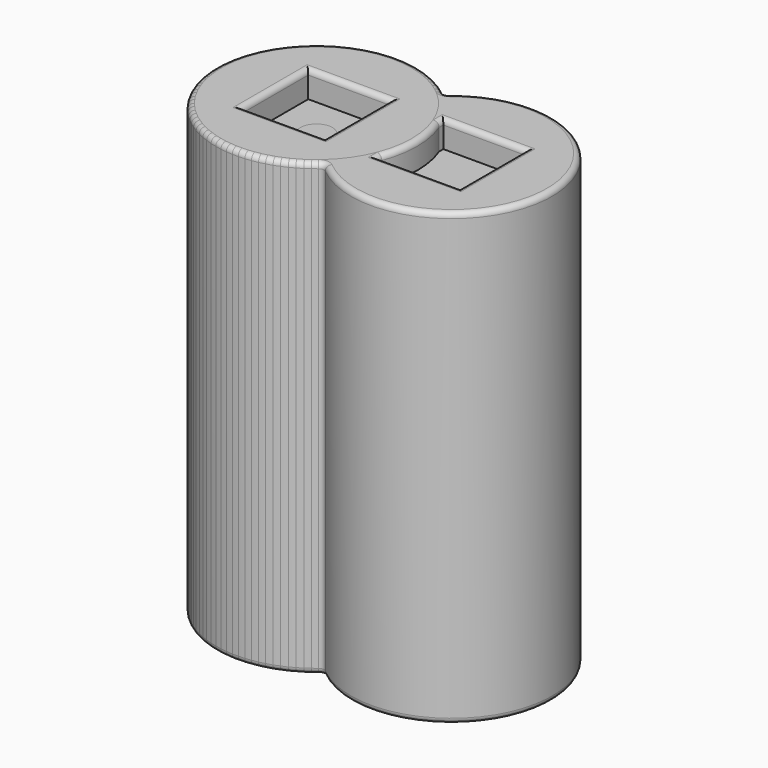
from build123d import *

# Parameters (mm, degrees)
PAD_DEPTH       = 85
SKETCH001_W     = 15.5
SKETCH001_H     = 15.5
POCKET_DEPTH    = 5
SKETCH002_R     = 3
POCKET001_DEPTH = 15
FILLET_R        = 1
SKETCH003_R     = 19
SKETCH003_R_2   = 3
PAD001_DEPTH    = 85
SKETCH004_W     = 15.5
SKETCH004_H     = 15.5
POCKET002_DEPTH = 5
FILLET001_R     = 1


with BuildPart() as body:
    # Sketch → Pad (new body)
    with BuildSketch(Plane.XY):
        with BuildLine():
            ThreePointArc((12.75, 14.086785), (-19, 0), (12.75, -14.086785))
            ThreePointArc((12.75, -14.086785), (44.5, 0), (12.75, 14.086785))
        make_face()
    extrude(amount=PAD_DEPTH)

    # Sketch001 → Pocket (cut)
    with BuildSketch(Plane.XY.offset(85)):
        Rectangle(SKETCH001_W, SKETCH001_H)
        with Locations((25.5, 0)):
            Rectangle(SKETCH001_W, SKETCH001_H)
    extrude(amount=-POCKET_DEPTH, mode=Mode.SUBTRACT)

    # Sketch002 → Pocket001 (cut)
    with BuildSketch(Plane.XY):
        with Locations((-1.25, 0)):
            Circle(SKETCH002_R)
        with Locations((26.75, 0)):
            Circle(SKETCH002_R)
    extrude(amount=POCKET001_DEPTH, mode=Mode.SUBTRACT)

    # Fillet
    fillet_edges = [body.edges().sort_by_distance(p)[0] for p in [
        (-19, 0, 85),
        (44.5, 0, 85),
        (-19, 0, 0),
        (44.5, 0, 0),
        (-4.25, 0, 0),
        (-7.75, 0, 85),
        (0, -7.75, 85),
        (7.75, 0, 85),
        (0, 7.75, 85),
        (17.75, 0, 85),
        (25.5, -7.75, 85),
        (33.25, 0, 85),
        (25.5, 7.75, 85),
        (23.75, 0, 0),
        (12.75, -14.086785, 42.5),
        (12.75, 14.086785, 42.5),
    ]]
    fillet(fillet_edges, radius=FILLET_R)


with BuildPart() as body001single:
    # Sketch003 → Pad001 (new body)
    with BuildSketch(Plane.XY):
        Circle(SKETCH003_R)
        Circle(SKETCH003_R_2, mode=Mode.SUBTRACT)
    extrude(amount=PAD001_DEPTH)

    # Sketch004 → Pocket002 (cut)
    with BuildSketch(Plane.XY.offset(85)):
        Rectangle(SKETCH004_W, SKETCH004_H)
    extrude(amount=-POCKET002_DEPTH, mode=Mode.SUBTRACT)

    # Fillet001
    fillet001_edges = [body001single.edges().sort_by_distance(p)[0] for p in [
        (-19, 0, 85),
        (-7.75, 0, 85),
        (0, -7.75, 85),
        (7.75, 0, 85),
        (0, 7.75, 85),
        (-19, 0, 0),
        (-3, 0, 0),
    ]]
    fillet(fillet001_edges, radius=FILLET001_R)


solid = Compound([body.part, body001single.part])
